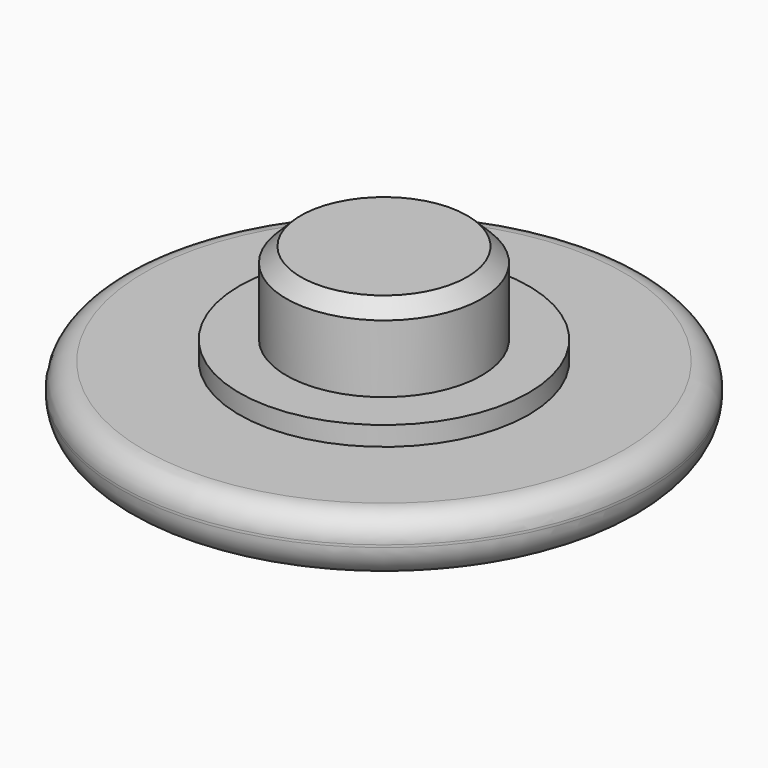
from build123d import *

# Parameters (mm, degrees)
F0_R     = 10.95
F1_DEPTH = 2.5
F2_R     = 4.05
F3_DEPTH = 4.2
F4_R     = 1
F5_R     = 6
F6_DEPTH = 0.8
F7_R     = 1.4
F8_SIZE  = 0.6


with BuildPart() as f1:
    # F0 (on Top) → F1 (new body)
    with BuildSketch(Plane.XY):
        Circle(F0_R)
    extrude(amount=F1_DEPTH)

    # F2 (on face) → F3 (join)
    with BuildSketch(Plane.XY.offset(2.5)):
        Circle(F2_R)
    extrude(amount=F3_DEPTH)

    # F4
    f4_edges = [f1.edges().sort_by_distance(p)[0] for p in [
        (-10.95, 0, 2.5),
    ]]
    fillet(f4_edges, radius=F4_R)

    # F5 (on face) → F6 (join)
    with BuildSketch(Plane.XY.offset(2.5)):
        Circle(F5_R)
    extrude(amount=F6_DEPTH)

    # F7
    f7_edges = [f1.edges().sort_by_distance(p)[0] for p in [
        (-10.95, 0, 0),
    ]]
    fillet(f7_edges, radius=F7_R)

    # F8
    f8_edges = [f1.edges().sort_by_distance(p)[0] for p in [
        (-4.05, 0, 6.7),
    ]]
    chamfer(f8_edges, length=F8_SIZE)


solid = f1.part
